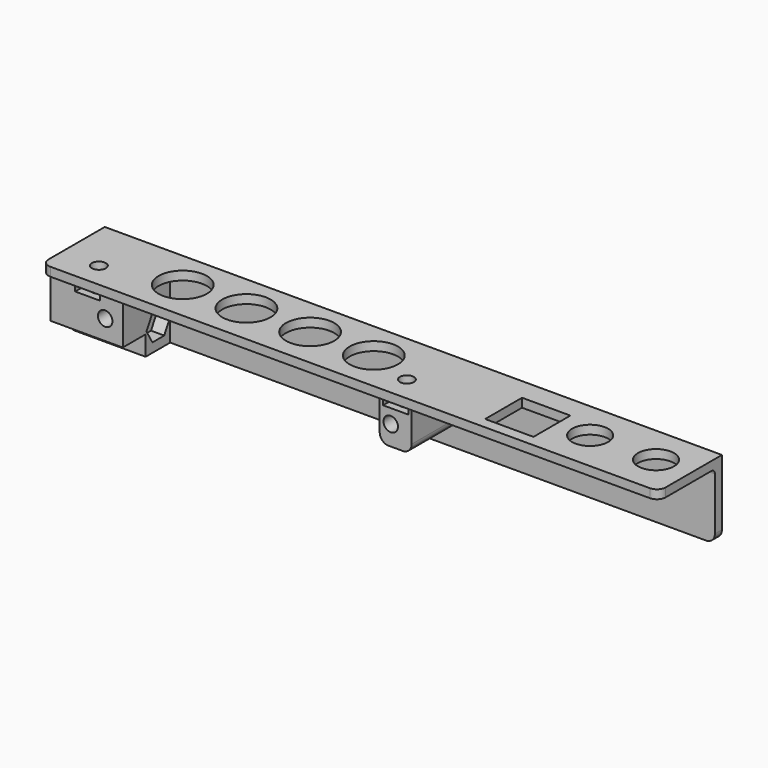
from build123d import *

# Parameters (mm, degrees)
SKETCH_R        = 5.5
SKETCH_R_2      = 4.1
SKETCH_W        = 11
SKETCH_H        = 10.5
PAD_DEPTH       = 2
SKETCH001_W     = 16.5
SKETCH001_H     = 16.5
PAD001_DEPTH    = 12.5
SKETCH002_W     = 140.5
SKETCH002_H     = 3
PAD002_DEPTH    = 17
SKETCH003_W     = 16.5
SKETCH003_H     = 10
PAD003_DEPTH    = 15
SKETCH004_R     = 1.65
POCKET_DEPTH    = 20
POCKET001_DEPTH = 3.5
SKETCH006_R     = 1.6
POCKET002_DEPTH = 20
POCKET003_DEPTH = 3
SKETCH008_R     = 1.6
POCKET004_DEPTH = 5
POCKET005_DEPTH = 2.8
POCKET006_DEPTH = 2.8
CHAMFER_SIZE    = 0.8
CHAMFER001_SIZE = 1
SKETCH011_W     = 142.26446
SKETCH011_H     = 19.063439
POCKET007_DEPTH = 1
FILLET_R        = 2
FILLET001_R     = 2
FILLET002_R     = 2
FILLET003_R     = 2
FILLET004_R     = 2
FILLET005_R     = 1
FILLET006_R     = 1
FILLET007_R     = 0.5


with BuildPart() as part:
    # Sketch → Pad (new body)
    with BuildSketch(Plane.XY):
        Polygon((0, 19), (131, 19), (131, 0), (0, 0), (-9.5, 0), (-9.5, 19), align=None)
        with Locations((15.25, 9.25)):
            Circle(SKETCH_R, mode=Mode.SUBTRACT)
        with Locations((29.75, 9.25)):
            Circle(SKETCH_R, mode=Mode.SUBTRACT)
        with Locations((44.25, 9.25)):
            Circle(SKETCH_R, mode=Mode.SUBTRACT)
        with Locations((58.75, 9.25)):
            Circle(SKETCH_R, mode=Mode.SUBTRACT)
        with Locations((108, 9.25)):
            Circle(SKETCH_R_2, mode=Mode.SUBTRACT)
        with Locations((123, 9.25)):
            Circle(SKETCH_R_2, mode=Mode.SUBTRACT)
        with Locations((95, 7.75)):
            Rectangle(SKETCH_W, SKETCH_H, mode=Mode.SUBTRACT)
    extrude(amount=PAD_DEPTH)

    # Sketch001 → Pad001 (new body)
    with BuildSketch(Plane.XY.offset(2)):
        with Locations((-1.25, 10.75)):
            Rectangle(SKETCH001_W, SKETCH001_H)
        Polygon((63.25, 19), (72.75, 19), (72.75, 2.5), (65.5, 2.5), (65.5, 16), (63.25, 16), align=None)
    extrude(amount=-PAD001_DEPTH)

    # Sketch002 → Pad002 (new body)
    with BuildSketch(Plane.XY.offset(2)):
        with Locations((60.75, 17.5)):
            Rectangle(SKETCH002_W, SKETCH002_H)
    extrude(amount=-PAD002_DEPTH)

    # Sketch003 → Pad003 (new body)
    with BuildSketch(Plane(origin=(0, 0, 0), x_dir=(1, 0, 0), z_dir=(0, 0, -1))):
        with Locations((-1.25, -14)):
            Rectangle(SKETCH003_W, SKETCH003_H)
    extrude(amount=PAD003_DEPTH)

    # Sketch004 → Pocket (cut)
    with BuildSketch(Plane.XZ.offset(-2.5)):
        with Locations((3, -6)):
            Circle(SKETCH004_R)
        with Locations((68, -6)):
            Circle(SKETCH004_R)
    extrude(amount=-POCKET_DEPTH, mode=Mode.SUBTRACT)

    # Sketch005 → Pocket001 (cut)
    with BuildSketch(Plane(origin=(0, 19, 0), x_dir=(-1, 0, 0), z_dir=(0, 1, 0))):
        Polygon((-4.802997, -3.386088), (-6.165213, -6.254486), (-4.362215, -8.868397), (-1.197003, -8.613912), (0.165213, -5.745514), (-1.637785, -3.131603), align=None)
        Polygon((-64.831829, -5.78546), (-66.601711, -3.149014), (-69.769882, -3.363554), (-71.168171, -6.21454), (-69.398289, -8.850986), (-66.230118, -8.636446), align=None)
    extrude(amount=-POCKET001_DEPTH, mode=Mode.SUBTRACT)

    # Sketch006 → Pocket002 (cut)
    with BuildSketch(Plane(origin=(-9.5, 0, 0), x_dir=(0, -1, 0), z_dir=(-1, 0, 0))):
        with Locations((-12.58756, -10)):
            Circle(SKETCH006_R)
    extrude(amount=-POCKET002_DEPTH, mode=Mode.SUBTRACT)

    # Sketch007 → Pocket003 (cut)
    with BuildSketch(Plane.YZ.offset(7)):
        Polygon((14.285865, -12.886017), (15.936076, -9.972234), (14.237772, -7.086217), (10.889255, -7.113983), (9.239044, -10.027766), (10.937348, -12.913783), align=None)
    extrude(amount=-POCKET003_DEPTH, mode=Mode.SUBTRACT)

    # Sketch008 → Pocket004 (cut)
    with BuildSketch(Plane.XY.offset(2)):
        with Locations((69.12, 5.7)):
            Circle(SKETCH008_R)
        with Locations((-1.01165, 5.7)):
            Circle(SKETCH008_R)
    extrude(amount=-POCKET004_DEPTH, mode=Mode.SUBTRACT)

    # Sketch009 → Pocket005 (cut)
    with BuildSketch(Plane(origin=(0, 0, 0), x_dir=(1, 0, 0), z_dir=(0, 0, -1))):
        Polygon((66.259544, -7.723634), (69.163413, -9.350056), (72.023869, -7.648441), (72.023869, -2.059704), (66.259544, -2.059704), align=None)
    extrude(amount=POCKET005_DEPTH, mode=Mode.SUBTRACT)

    # Sketch010 → Pocket006 (cut)
    with BuildSketch(Plane(origin=(0, 0, 0), x_dir=(1, 0, 0), z_dir=(0, 0, -1))):
        Polygon((-3.837748, -7.811181), (-0.999162, -9.409884), (1.845776, -7.757931), (1.845776, -1.91964), (-3.837748, -1.91964), align=None)
    extrude(amount=POCKET006_DEPTH, mode=Mode.SUBTRACT)

    # Chamfer
    chamfer_edges = [part.edges().sort_by_distance(p)[0] for p in [
        (66.35, 15.5, -6),
    ]]
    chamfer(chamfer_edges, length=CHAMFER_SIZE)

    # Chamfer001
    chamfer001_edges = [part.edges().sort_by_distance(p)[0] for p in [
        (1.35, 15.5, -6),
    ]]
    chamfer(chamfer001_edges, length=CHAMFER001_SIZE)

    # Sketch011 → Pocket007 (cut)
    with BuildSketch(Plane(origin=(0, 19, 0), x_dir=(-1, 0, 0), z_dir=(0, 1, 0))):
        with Locations((-60.301471, -6.813256)):
            Rectangle(SKETCH011_W, SKETCH011_H)
    extrude(amount=-POCKET007_DEPTH, mode=Mode.SUBTRACT)

    # Fillet
    fillet_edges = [part.edges().sort_by_distance(p)[0] for p in [
        (72.75, 9.25, -10.5),
    ]]
    fillet(fillet_edges, radius=FILLET_R)

    # Fillet001
    fillet001_edges = [part.edges().sort_by_distance(p)[0] for p in [
        (65.5, 9.25, -10.5),
    ]]
    fillet(fillet001_edges, radius=FILLET001_R)

    # Fillet002
    fillet002_edges = [part.edges().sort_by_distance(p)[0] for p in [
        (131, 0, 1),
    ]]
    fillet(fillet002_edges, radius=FILLET002_R)

    # Fillet003
    fillet003_edges = [part.edges().sort_by_distance(p)[0] for p in [
        (131, 17, -15),
    ]]
    fillet(fillet003_edges, radius=FILLET003_R)

    # Fillet004
    fillet004_edges = [part.edges().sort_by_distance(p)[0] for p in [
        (-9.5, 0, 1),
    ]]
    fillet(fillet004_edges, radius=FILLET004_R)

    # Fillet005
    fillet005_edges = [part.edges().sort_by_distance(p)[0] for p in [
        (101.875, 16, 0),
    ]]
    fillet(fillet005_edges, radius=FILLET005_R)

    # Fillet006
    fillet006_edges = [part.edges().sort_by_distance(p)[0] for p in [
        (35.125, 16, 0),
    ]]
    fillet(fillet006_edges, radius=FILLET006_R)

    # Fillet007
    fillet007_edges = [part.edges().sort_by_distance(p)[0] for p in [
        (65.5, 8.75, 0),
    ]]
    fillet(fillet007_edges, radius=FILLET007_R)


solid = part.part
